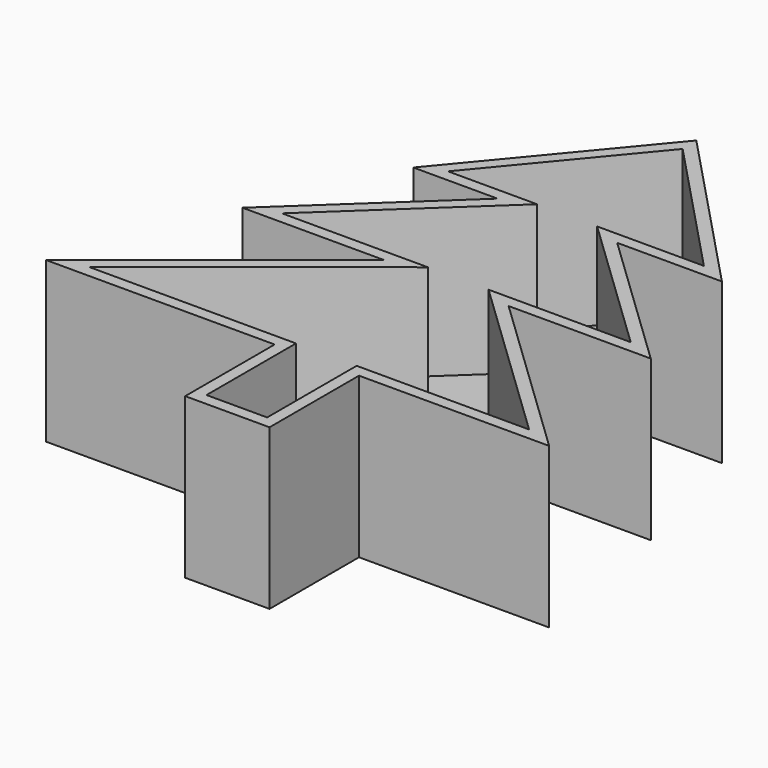
from build123d import *

# Parameters (mm, degrees)
F1_DEPTH = 25
F2_T     = 2
F3_R     = 9.8912008391
F3_R_2   = 4.387511957
F3_R_3   = 6.4247632348
F4_DEPTH = 25


with BuildPart() as f1:
    # F0 (on Top) → F1 (new body)
    with BuildSketch(Plane.XY):
        Polygon((23.0428799987, 34.2442803085), (0, 58.5673190653), (-20.1625209302, 34.2442803085), (-5.1206401549, 34.2442803085), (-29.7637209296, 11.2014003098), (-5.1206401549, 11.2014003098), (-40.0050021708, -16.6420806199), (-5.1206401549, -16.6420806199), (-5.1206401549, -35.5244390666), (5.1206401549, -35.5244390666), (5.1206401549, -16.6420806199), (34.2442803085, -16.6420806199), (5.1206401549, 11.2014003098), (29.1236396879, 11.2014003098), (5.0213176084, 34.2442803085), align=None)
    extrude(amount=F1_DEPTH)

    # F2
    f2_openings = [f1.faces().sort_by_distance(p)[0] for p in [
        (-0.665195, 9.585773, 25),
    ]]
    offset(amount=F2_T, openings=f2_openings, kind=Kind.INTERSECTION)

    # F3 (on face) → F4 (cut)
    with BuildSketch(Plane(origin=(0, 0, -2), x_dir=(1, 0, 0), z_dir=(0, 0, -1))):
        Circle(F3_R)
        with Locations((0, -46.9125165525)):
            Circle(F3_R_2)
        with Locations((0, -28.6650005728)):
            Circle(F3_R_3)
    extrude(amount=-F4_DEPTH, mode=Mode.SUBTRACT)


solid = f1.part
